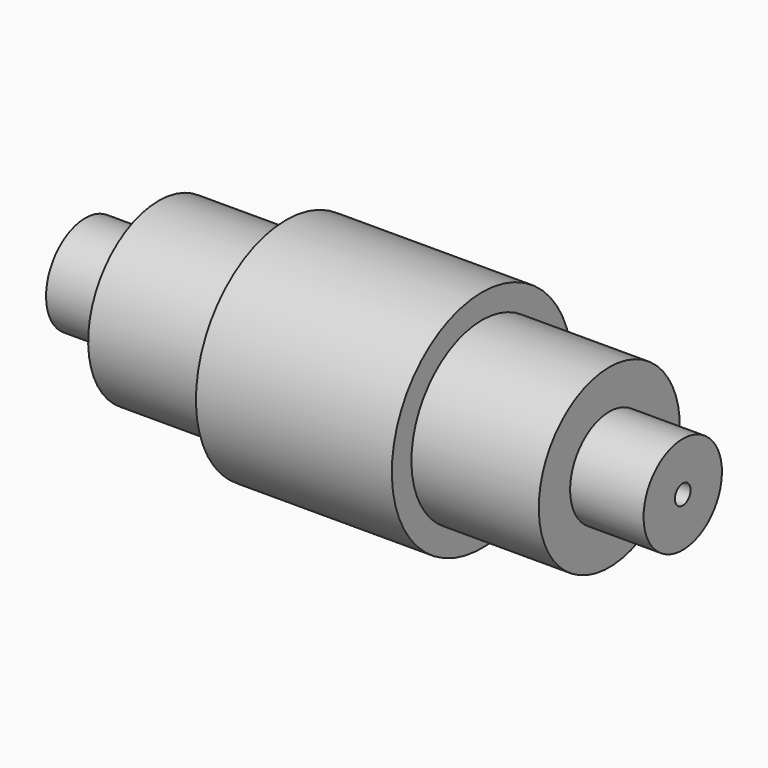
from build123d import *


with BuildPart() as f1:
    # F0 (on Front) → F1 (revolve)
    with BuildSketch(Plane.XZ):
        Polygon((-46, 0), (-20, 0), (38.065717, 0), (46, 0), (46, 2), (61, 2), (61, 10), (46, 10), (46, 18), (20, 18), (20, 23), (-20, 23), (-20, 18), (-46, 18), (-46, 10), (-61, 10), (-61, 2), (-46, 2), align=None)
    revolve(axis=Axis((-2.407254, 0, 0), (1, 0, 0)))


solid = f1.part
